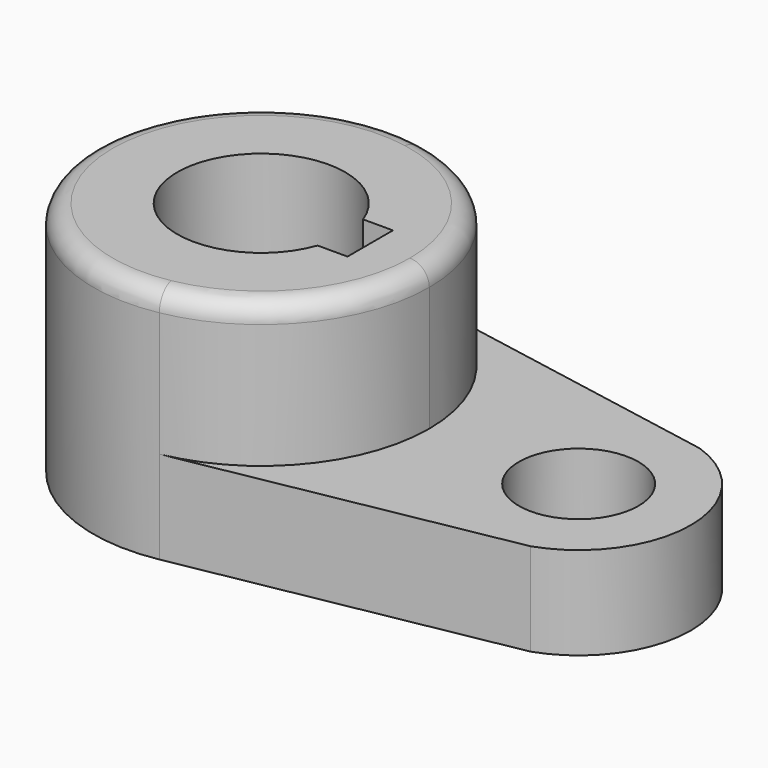
from build123d import *

# Parameters (mm, degrees)
F0_R     = 10.16
F1_DEPTH = 15.7734
F3_DEPTH = 24.4602
F5_DEPTH = 40.2346
F6_R     = 3.302


with BuildPart() as f1:
    # F0 (on Top) → F1 (new body)
    with BuildSketch(Plane.XY):
        with BuildLine():
            Line((60.155679, 18.019481), (5.154464, 28.106265))
            ThreePointArc((5.154464, 28.106265), (-28.575, -0.002611), (5.159601, -28.105322))
            Line((5.159601, -28.105322), (60.22005, -17.997273))
            ThreePointArc((60.22005, -17.997273), (73.02497, 0.034047), (60.155679, 18.019481))
        make_face()
        with Locations((53.975, 0)):
            Circle(F0_R, mode=Mode.SUBTRACT)
    extrude(amount=F1_DEPTH)

    # F2 (on face) → F3 (join)
    with BuildSketch(Plane.XY.offset(15.7734)):
        with BuildLine():
            ThreePointArc((5.159601, -28.105322), (21.954114, -18.29064), (28.575, 0))
            ThreePointArc((28.575, 0), (21.952442, 18.292646), (5.154464, 28.106265))
            ThreePointArc((5.154464, 28.106265), (-28.575, -0.002611), (5.159601, -28.105322))
        make_face()
    extrude(amount=F3_DEPTH)

    # F4 (on face) → F5 (cut, through all)
    with BuildSketch(Plane.XY.offset(40.2336)):
        with BuildLine():
            Line((18.5293, 4.826), (13.447765, 4.826))
            ThreePointArc((13.447765, 4.826), (-14.2875, 0), (13.447765, -4.826))
            Line((13.447765, -4.826), (18.5293, -4.826))
            Line((18.5293, -4.826), (18.5293, 4.826))
        make_face()
    extrude(amount=-F5_DEPTH, mode=Mode.SUBTRACT)

    # F6
    f6_edges = [f1.edges().sort_by_distance(p)[0] for p in [
        (-5.159601, 28.105322, 40.2336),
    ]]
    fillet(f6_edges, radius=F6_R)


solid = f1.part
